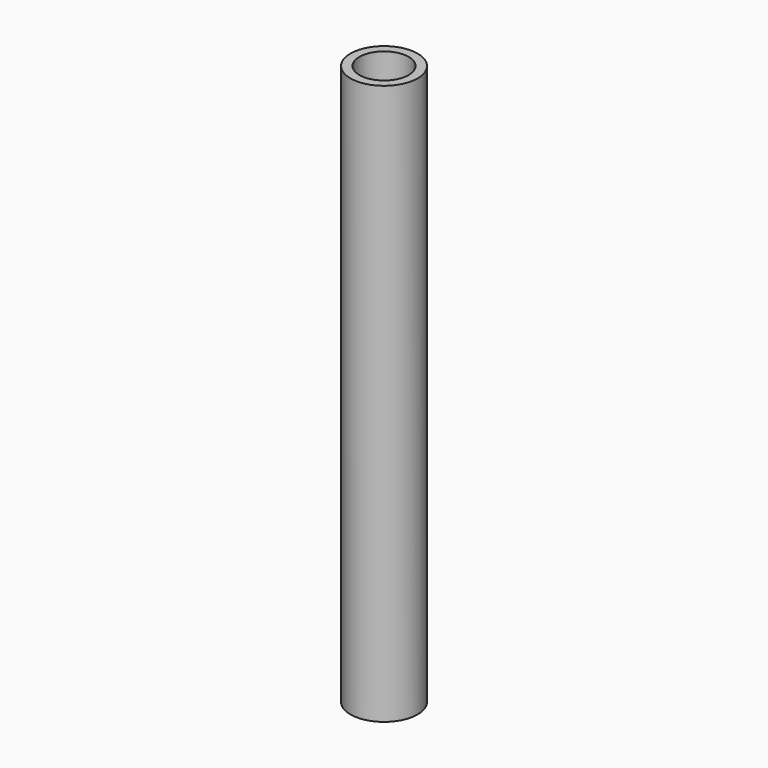
from build123d import *

# Parameters (mm, degrees)
SKETCH_R   = 15
SKETCH_R_2 = 11
PAD_DEPTH  = 250


with BuildPart() as part:
    # Sketch → Pad (new body)
    with BuildSketch(Plane.XY):
        Circle(SKETCH_R)
        Circle(SKETCH_R_2, mode=Mode.SUBTRACT)
    extrude(amount=PAD_DEPTH)


solid = part.part
